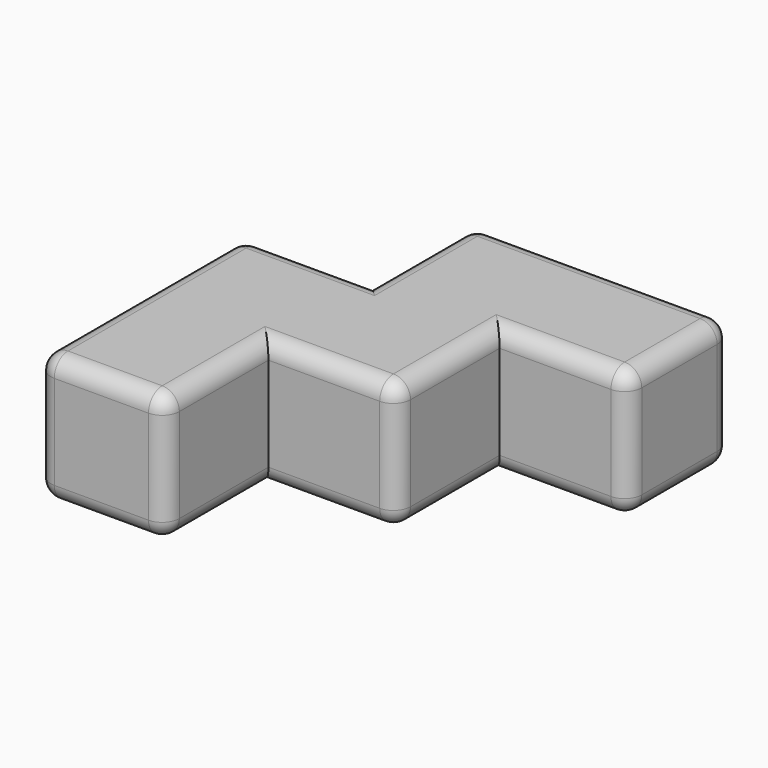
from build123d import *

# Parameters (mm, degrees)
F1_DEPTH = 19.05
F2_R     = 2.54


with BuildPart() as f1:
    # F0 (on Top) → F1 (new body)
    with BuildSketch(Plane.XY):
        Polygon((19.05, 38.1), (0, 38.1), (0, 0), (19.05, 0), (19.05, 19.05), (38.1, 19.05), (38.1, 38.1), (57.15, 38.1), (57.15, 57.15), (19.05, 57.15), align=None)
    extrude(amount=F1_DEPTH)

    # F2
    f2_edges = [f1.edges().sort_by_distance(p)[0] for p in [
        (38.1, 57.15, 19.05),
        (19.05, 47.625, 19.05),
        (9.525, 38.1, 19.05),
        (0, 19.05, 19.05),
        (9.525, 0, 19.05),
        (19.05, 9.525, 19.05),
        (28.575, 19.05, 19.05),
        (38.1, 28.575, 19.05),
        (47.625, 38.1, 19.05),
        (57.15, 47.625, 19.05),
        (38.1, 57.15, 0),
        (19.05, 47.625, 0),
        (9.525, 38.1, 0),
        (0, 19.05, 0),
        (9.525, 0, 0),
        (19.05, 9.525, 0),
        (28.575, 19.05, 0),
        (38.1, 28.575, 0),
        (47.625, 38.1, 0),
        (57.15, 47.625, 0),
        (0, 0, 9.525),
        (19.05, 0, 9.525),
        (57.15, 38.1, 9.525),
        (57.15, 57.15, 9.525),
        (38.1, 19.05, 9.525),
        (19.05, 57.15, 9.525),
        (0, 38.1, 9.525),
    ]]
    fillet(f2_edges, radius=F2_R)


solid = f1.part
